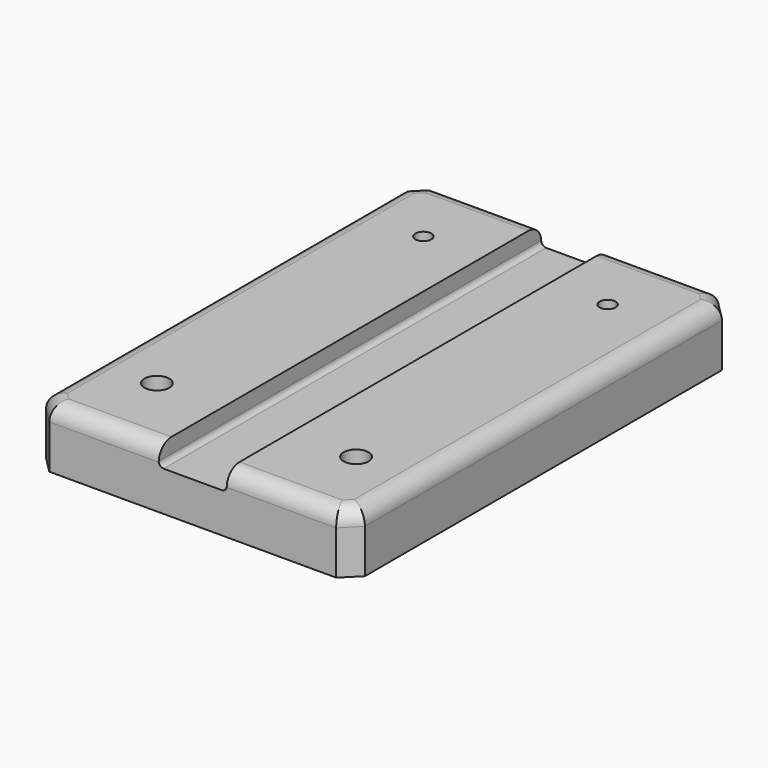
from build123d import *

# Parameters (mm, degrees)
F0_W     = 101.6
F0_H     = 19.05
F1_DEPTH = 76.2
F3_D     = 7.9375
F3_DEPTH = 12.7
F3_TIP   = 2.3846655818
F5_DEPTH = 152.401
F7_D     = 5.1054
F8_SIZE  = 5.08
F9_R     = 5.08


with BuildPart() as f1:
    # F0 (on Front) → F1 (new body, symmetric)
    with BuildSketch(Plane.XZ):
        Rectangle(F0_W, F0_H)
    extrude(amount=F1_DEPTH, both=True)

    # F3
    with Locations(Plane.XY.offset(9.525)):
        with Locations((-31.75, -50.8), (31.75, -50.8)):
            Hole(F3_D / 2, depth=F3_DEPTH)
            with Locations((0, 0, -(F3_DEPTH + F3_TIP / 2))):  # 118° drill point
                Cone(0, F3_D / 2, F3_TIP, mode=Mode.SUBTRACT)

    # F4 (on face) → F5 (cut, through all)
    with BuildSketch(Plane.XZ.offset(76.2)):
        with BuildLine():
            Line((10.8450762928, 9.525), (-10.8450762928, 9.525))
            Line((-10.8450762928, 9.525), (-10.8450762928, 4.7625))
            ThreePointArc((-10.8450762928, 4.7625), (-10.3801083079, 3.6399679849), (-9.2575762928, 3.175))
            Line((-9.2575762928, 3.175), (9.2575762928, 3.175))
            ThreePointArc((9.2575762928, 3.175), (10.3801083079, 3.6399679849), (10.8450762928, 4.7625))
            Line((10.8450762928, 4.7625), (10.8450762928, 9.525))
        make_face()
    extrude(amount=-F5_DEPTH, mode=Mode.SUBTRACT)

    # F7 (through all)
    with Locations(Plane.XY.offset(9.525)):
        with Locations((-29.3624, 52.3875), (29.3624, 52.3875)):
            Hole(F7_D / 2)

    # F8
    f8_edges = [f1.edges().sort_by_distance(p)[0] for p in [
        (50.8, 76.2, 0),
        (50.8, -76.2, 0),
        (-50.8, -76.2, 0),
        (-50.8, 76.2, 0),
    ]]
    chamfer(f8_edges, length=F8_SIZE)

    # F9
    f9_edges = [f1.edges().sort_by_distance(p)[0] for p in [
        (-48.26, 73.66, 9.525),
        (-28.282538, 76.2, 9.525),
        (-48.26, -73.66, 9.525),
        (48.26, -73.66, 9.525),
        (48.26, 73.66, 9.525),
        (50.8, 0, 9.525),
        (-50.8, 0, 9.525),
        (-28.282538, -76.2, 9.525),
        (28.282538, -76.2, 9.525),
        (28.282538, 76.2, 9.525),
    ]]
    fillet(f9_edges, radius=F9_R)


solid = f1.part
